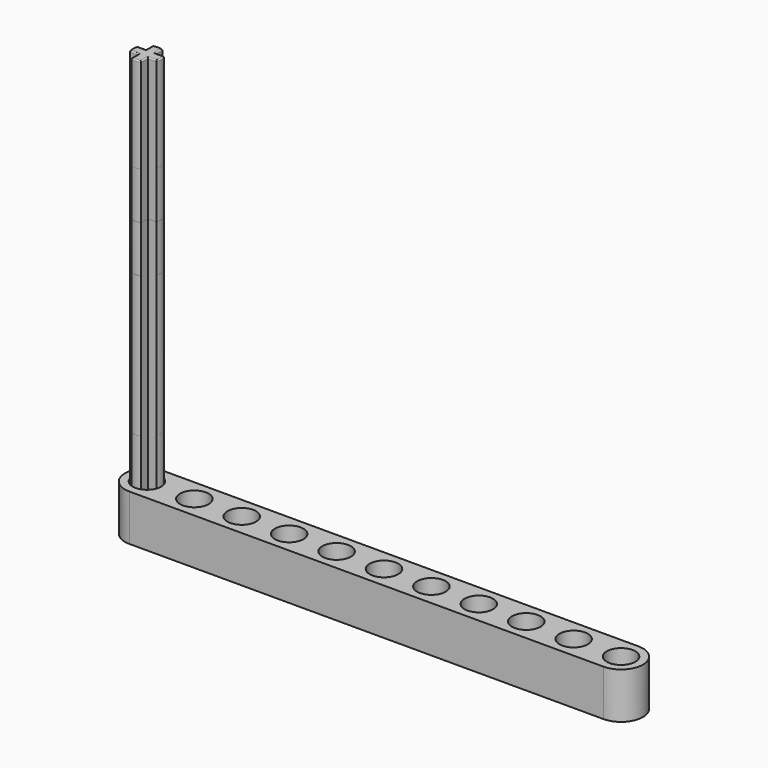
from build123d import *

# Parameters (mm, degrees)
F0_R      = 3.1
F0_R_2    = 2.4
F4_DEPTH  = 7.76
F1_R      = 2.4
F5_DEPTH  = 7.76
F17_R     = 2.4
F19_DEPTH = 7.76
F2_R      = 2.4
F20_DEPTH = 7.76
F3_R      = 2.4
F6_DEPTH  = 7.76
F18_W     = 1.58
F18_H     = 1.58
F7_DEPTH  = 15.8
F21_R     = 0.2
F8_DEPTH  = 23.7
F9_R      = 0.2
F22_DEPTH = 31.6
F10_R     = 0.2
F23_DEPTH = 39.5
F11_R     = 0.2
F12_DEPTH = 55.3
F13_R     = 0.2
F14_DEPTH = 71.1
F24_R     = 0.2
F15_DEPTH = 47.4
F16_R     = 0.2


with BuildPart() as f4:
    # F0 (on Top) → F4 (new body)
    with BuildSketch(Plane.XY):
        with BuildLine():
            Line((0, -3.69), (15.94, -3.69))
            ThreePointArc((15.94, -3.69), (19.63, 0), (15.94, 3.69))
            Line((15.94, 3.69), (0, 3.69))
            ThreePointArc((0, 3.69), (-3.69, 0), (0, -3.69))
        make_face()
        Circle(F0_R, mode=Mode.SUBTRACT)
        with Locations((7.97, 0)):
            Circle(F0_R, mode=Mode.SUBTRACT)
        with Locations((15.94, 0)):
            Circle(F0_R, mode=Mode.SUBTRACT)
        Circle(F0_R)
        Circle(F0_R_2, mode=Mode.SUBTRACT)
        with Locations((7.97, 0)):
            Circle(F0_R)
        with Locations((7.97, 0)):
            Circle(F0_R_2, mode=Mode.SUBTRACT)
        with Locations((15.94, 0)):
            Circle(F0_R)
        with Locations((15.94, 0)):
            Circle(F0_R_2, mode=Mode.SUBTRACT)
    extrude(amount=F4_DEPTH)


with BuildPart() as f5:
    # F1 (on Top) → F5 (new body, through all)
    with BuildSketch(Plane.XY):
        with BuildLine():
            Line((0, -3.69), (31.88, -3.69))
            ThreePointArc((31.88, -3.69), (35.57, 0), (31.88, 3.69))
            Line((31.88, 3.69), (0, 3.69))
            ThreePointArc((0, 3.69), (-3.69, 0), (0, -3.69))
        make_face()
        Circle(F1_R, mode=Mode.SUBTRACT)
        with Locations((7.97, 0)):
            Circle(F1_R, mode=Mode.SUBTRACT)
        with Locations((15.94, 0)):
            Circle(F1_R, mode=Mode.SUBTRACT)
        with Locations((23.91, 0)):
            Circle(F1_R, mode=Mode.SUBTRACT)
        with Locations((31.88, 0)):
            Circle(F1_R, mode=Mode.SUBTRACT)
    extrude(amount=F5_DEPTH)


with BuildPart() as f19:
    # F17 (on Top) → F19 (new body, through all)
    with BuildSketch(Plane.XY):
        with BuildLine():
            Line((0, -3.69), (47.82, -3.69))
            ThreePointArc((47.82, -3.69), (51.51, 0), (47.82, 3.69))
            Line((47.82, 3.69), (0, 3.69))
            ThreePointArc((0, 3.69), (-3.69, 0), (0, -3.69))
        make_face()
        Circle(F17_R, mode=Mode.SUBTRACT)
        with Locations((7.97, 0)):
            Circle(F17_R, mode=Mode.SUBTRACT)
        with Locations((15.94, 0)):
            Circle(F17_R, mode=Mode.SUBTRACT)
        with Locations((23.91, 0)):
            Circle(F17_R, mode=Mode.SUBTRACT)
        with Locations((31.88, 0)):
            Circle(F17_R, mode=Mode.SUBTRACT)
        with Locations((39.85, 0)):
            Circle(F17_R, mode=Mode.SUBTRACT)
        with Locations((47.82, 0)):
            Circle(F17_R, mode=Mode.SUBTRACT)
    extrude(amount=F19_DEPTH)


with BuildPart() as f20:
    # F2 (on Top) → F20 (new body, through all)
    with BuildSketch(Plane.XY):
        with BuildLine():
            Line((0, -3.69), (63.76, -3.69))
            ThreePointArc((63.76, -3.69), (67.45, 0), (63.76, 3.69))
            Line((63.76, 3.69), (0, 3.69))
            ThreePointArc((0, 3.69), (-3.69, 0), (0, -3.69))
        make_face()
        Circle(F2_R, mode=Mode.SUBTRACT)
        with Locations((7.97, 0)):
            Circle(F2_R, mode=Mode.SUBTRACT)
        with Locations((15.94, 0)):
            Circle(F2_R, mode=Mode.SUBTRACT)
        with Locations((23.91, 0)):
            Circle(F2_R, mode=Mode.SUBTRACT)
        with Locations((31.88, 0)):
            Circle(F2_R, mode=Mode.SUBTRACT)
        with Locations((39.85, 0)):
            Circle(F2_R, mode=Mode.SUBTRACT)
        with Locations((47.82, 0)):
            Circle(F2_R, mode=Mode.SUBTRACT)
        with Locations((55.79, 0)):
            Circle(F2_R, mode=Mode.SUBTRACT)
        with Locations((63.76, 0)):
            Circle(F2_R, mode=Mode.SUBTRACT)
    extrude(amount=F20_DEPTH)


with BuildPart() as f6:
    # F3 (on Top) → F6 (new body, through all)
    with BuildSketch(Plane.XY):
        with BuildLine():
            Line((0, -3.69), (79.7, -3.69))
            ThreePointArc((79.7, -3.69), (83.39, 0), (79.7, 3.69))
            Line((79.7, 3.69), (0, 3.69))
            ThreePointArc((0, 3.69), (-3.69, 0), (0, -3.69))
        make_face()
        Circle(F3_R, mode=Mode.SUBTRACT)
        with Locations((7.97, 0)):
            Circle(F3_R, mode=Mode.SUBTRACT)
        with Locations((15.94, 0)):
            Circle(F3_R, mode=Mode.SUBTRACT)
        with Locations((23.91, 0)):
            Circle(F3_R, mode=Mode.SUBTRACT)
        with Locations((31.88, 0)):
            Circle(F3_R, mode=Mode.SUBTRACT)
        with Locations((39.85, 0)):
            Circle(F3_R, mode=Mode.SUBTRACT)
        with Locations((47.82, 0)):
            Circle(F3_R, mode=Mode.SUBTRACT)
        with Locations((55.79, 0)):
            Circle(F3_R, mode=Mode.SUBTRACT)
        with Locations((63.76, 0)):
            Circle(F3_R, mode=Mode.SUBTRACT)
        with Locations((71.73, 0)):
            Circle(F3_R, mode=Mode.SUBTRACT)
        with Locations((79.7, 0)):
            Circle(F3_R, mode=Mode.SUBTRACT)
    extrude(amount=F6_DEPTH)


with BuildPart() as f7:
    # F18 (on Top) → F7 (new body)
    with BuildSketch(Plane.XY):
        with BuildLine():
            Line((-0.79, -0.79), (-0.79, -2.2344574285))
            ThreePointArc((-0.79, -2.2344574285), (0, -2.37), (0.79, -2.2344574285))
            Line((0.79, -2.2344574285), (0.79, -0.79))
            Line((0.79, -0.79), (-0.79, -0.79))
        make_face()
        Rectangle(F18_W, F18_H)
        with BuildLine():
            Line((-2.2344574285, -0.79), (-0.79, -0.79))
            Line((-0.79, -0.79), (-0.79, 0.79))
            Line((-0.79, 0.79), (-2.2344574285, 0.79))
            ThreePointArc((-2.2344574285, 0.79), (-2.37, 0), (-2.2344574285, -0.79))
        make_face()
        with BuildLine():
            Line((0.79, 0.79), (0.79, -0.79))
            Line((0.79, -0.79), (2.2344574285, -0.79))
            ThreePointArc((2.2344574285, -0.79), (2.37, 0), (2.2344574285, 0.79))
            Line((2.2344574285, 0.79), (0.79, 0.79))
        make_face()
        with BuildLine():
            Line((-0.79, 2.2344574285), (-0.79, 0.79))
            Line((-0.79, 0.79), (0.79, 0.79))
            Line((0.79, 0.79), (0.79, 2.2344574285))
            ThreePointArc((0.79, 2.2344574285), (0, 2.37), (-0.79, 2.2344574285))
        make_face()
    extrude(amount=F7_DEPTH)

    # F21
    f21_edges = [f7.edges().sort_by_distance(p)[0] for p in [
        (0.79, -1.512229, 15.8),
        (1.512229, -0.79, 15.8),
        (2.37, 0, 15.8),
        (1.512229, 0.79, 15.8),
        (0.79, 1.512229, 15.8),
        (0, 2.37, 15.8),
        (-0.79, 1.512229, 15.8),
        (-1.512229, 0.79, 15.8),
        (-2.37, 0, 15.8),
        (-1.512229, -0.79, 15.8),
        (-0.79, -1.512229, 15.8),
        (0, -2.37, 15.8),
        (0.79, -1.512229, 0),
        (1.512229, -0.79, 0),
        (2.37, 0, 0),
        (1.512229, 0.79, 0),
        (0.79, 1.512229, 0),
        (0, 2.37, 0),
        (-0.79, 1.512229, 0),
        (-1.512229, 0.79, 0),
        (-2.37, 0, 0),
        (-1.512229, -0.79, 0),
        (-0.79, -1.512229, 0),
        (0, -2.37, 0),
    ]]
    fillet(f21_edges, radius=F21_R)


with BuildPart() as f8:
    # F18 (on Top) → F8 (new body)
    with BuildSketch(Plane.XY):
        with BuildLine():
            Line((-0.79, -0.79), (-0.79, -2.2344574285))
            ThreePointArc((-0.79, -2.2344574285), (0, -2.37), (0.79, -2.2344574285))
            Line((0.79, -2.2344574285), (0.79, -0.79))
            Line((0.79, -0.79), (-0.79, -0.79))
        make_face()
        Rectangle(F18_W, F18_H)
        with BuildLine():
            Line((-2.2344574285, -0.79), (-0.79, -0.79))
            Line((-0.79, -0.79), (-0.79, 0.79))
            Line((-0.79, 0.79), (-2.2344574285, 0.79))
            ThreePointArc((-2.2344574285, 0.79), (-2.37, 0), (-2.2344574285, -0.79))
        make_face()
        with BuildLine():
            Line((0.79, 0.79), (0.79, -0.79))
            Line((0.79, -0.79), (2.2344574285, -0.79))
            ThreePointArc((2.2344574285, -0.79), (2.37, 0), (2.2344574285, 0.79))
            Line((2.2344574285, 0.79), (0.79, 0.79))
        make_face()
        with BuildLine():
            Line((-0.79, 2.2344574285), (-0.79, 0.79))
            Line((-0.79, 0.79), (0.79, 0.79))
            Line((0.79, 0.79), (0.79, 2.2344574285))
            ThreePointArc((0.79, 2.2344574285), (0, 2.37), (-0.79, 2.2344574285))
        make_face()
    extrude(amount=F8_DEPTH)

    # F9
    f9_edges = [f8.edges().sort_by_distance(p)[0] for p in [
        (0.79, -1.512229, 0),
        (1.512229, -0.79, 0),
        (2.37, 0, 0),
        (1.512229, 0.79, 0),
        (0.79, 1.512229, 0),
        (0, 2.37, 0),
        (-0.79, 1.512229, 0),
        (-1.512229, 0.79, 0),
        (-2.37, 0, 0),
        (-1.512229, -0.79, 0),
        (-0.79, -1.512229, 0),
        (0, -2.37, 0),
    ]]
    fillet(f9_edges, radius=F9_R)


with BuildPart() as f22:
    # F18 (on Top) → F22 (new body)
    with BuildSketch(Plane.XY):
        with BuildLine():
            Line((-0.79, -0.79), (-0.79, -2.2344574285))
            ThreePointArc((-0.79, -2.2344574285), (0, -2.37), (0.79, -2.2344574285))
            Line((0.79, -2.2344574285), (0.79, -0.79))
            Line((0.79, -0.79), (-0.79, -0.79))
        make_face()
        Rectangle(F18_W, F18_H)
        with BuildLine():
            Line((-2.2344574285, -0.79), (-0.79, -0.79))
            Line((-0.79, -0.79), (-0.79, 0.79))
            Line((-0.79, 0.79), (-2.2344574285, 0.79))
            ThreePointArc((-2.2344574285, 0.79), (-2.37, 0), (-2.2344574285, -0.79))
        make_face()
        with BuildLine():
            Line((0.79, 0.79), (0.79, -0.79))
            Line((0.79, -0.79), (2.2344574285, -0.79))
            ThreePointArc((2.2344574285, -0.79), (2.37, 0), (2.2344574285, 0.79))
            Line((2.2344574285, 0.79), (0.79, 0.79))
        make_face()
        with BuildLine():
            Line((-0.79, 2.2344574285), (-0.79, 0.79))
            Line((-0.79, 0.79), (0.79, 0.79))
            Line((0.79, 0.79), (0.79, 2.2344574285))
            ThreePointArc((0.79, 2.2344574285), (0, 2.37), (-0.79, 2.2344574285))
        make_face()
    extrude(amount=F22_DEPTH)

    # F10
    f10_edges = [f22.edges().sort_by_distance(p)[0] for p in [
        (0.79, -1.512229, 0),
        (1.512229, -0.79, 0),
        (2.37, 0, 0),
        (1.512229, 0.79, 0),
        (0.79, 1.512229, 0),
        (0, 2.37, 0),
        (-0.79, 1.512229, 0),
        (-1.512229, 0.79, 0),
        (-2.37, 0, 0),
        (-1.512229, -0.79, 0),
        (-0.79, -1.512229, 0),
        (0, -2.37, 0),
        (0.79, -1.512229, 31.6),
        (1.512229, -0.79, 31.6),
        (2.37, 0, 31.6),
        (1.512229, 0.79, 31.6),
        (0.79, 1.512229, 31.6),
        (0, 2.37, 31.6),
        (-0.79, 1.512229, 31.6),
        (-1.512229, 0.79, 31.6),
        (-2.37, 0, 31.6),
        (-1.512229, -0.79, 31.6),
        (-0.79, -1.512229, 31.6),
        (0, -2.37, 31.6),
    ]]
    fillet(f10_edges, radius=F10_R)

    # F18 (on Top) → F23 (join)
    with BuildSketch(Plane.XY):
        with BuildLine():
            Line((-0.79, -0.79), (-0.79, -2.2344574285))
            ThreePointArc((-0.79, -2.2344574285), (0, -2.37), (0.79, -2.2344574285))
            Line((0.79, -2.2344574285), (0.79, -0.79))
            Line((0.79, -0.79), (-0.79, -0.79))
        make_face()
        Rectangle(F18_W, F18_H)
        with BuildLine():
            Line((-2.2344574285, -0.79), (-0.79, -0.79))
            Line((-0.79, -0.79), (-0.79, 0.79))
            Line((-0.79, 0.79), (-2.2344574285, 0.79))
            ThreePointArc((-2.2344574285, 0.79), (-2.37, 0), (-2.2344574285, -0.79))
        make_face()
        with BuildLine():
            Line((0.79, 0.79), (0.79, -0.79))
            Line((0.79, -0.79), (2.2344574285, -0.79))
            ThreePointArc((2.2344574285, -0.79), (2.37, 0), (2.2344574285, 0.79))
            Line((2.2344574285, 0.79), (0.79, 0.79))
        make_face()
        with BuildLine():
            Line((-0.79, 2.2344574285), (-0.79, 0.79))
            Line((-0.79, 0.79), (0.79, 0.79))
            Line((0.79, 0.79), (0.79, 2.2344574285))
            ThreePointArc((0.79, 2.2344574285), (0, 2.37), (-0.79, 2.2344574285))
        make_face()
    extrude(amount=F23_DEPTH)

    # F11
    f11_edges = [f22.edges().sort_by_distance(p)[0] for p in [
        (0.79, -1.512229, 39.5),
        (1.512229, -0.79, 39.5),
        (2.37, 0, 39.5),
        (1.512229, 0.79, 39.5),
        (0.79, 1.512229, 39.5),
        (0, 2.37, 39.5),
        (-0.79, 1.512229, 39.5),
        (-1.512229, 0.79, 39.5),
        (-2.37, 0, 39.5),
        (-1.512229, -0.79, 39.5),
        (-0.79, -1.512229, 39.5),
        (0, -2.37, 39.5),
        (0.79, -1.512229, 0),
        (1.512229, -0.79, 0),
        (2.37, 0, 0),
        (1.512229, 0.79, 0),
        (0.79, 1.512229, 0),
        (0, 2.37, 0),
        (-0.79, 1.512229, 0),
        (-1.512229, 0.79, 0),
        (-2.37, 0, 0),
        (-1.512229, -0.79, 0),
        (-0.79, -1.512229, 0),
        (0, -2.37, 0),
    ]]
    fillet(f11_edges, radius=F11_R)


with BuildPart() as f12:
    # F18 (on Top) → F12 (new body)
    with BuildSketch(Plane.XY):
        with BuildLine():
            Line((-0.79, -0.79), (-0.79, -2.2344574285))
            ThreePointArc((-0.79, -2.2344574285), (0, -2.37), (0.79, -2.2344574285))
            Line((0.79, -2.2344574285), (0.79, -0.79))
            Line((0.79, -0.79), (-0.79, -0.79))
        make_face()
        Rectangle(F18_W, F18_H)
        with BuildLine():
            Line((-2.2344574285, -0.79), (-0.79, -0.79))
            Line((-0.79, -0.79), (-0.79, 0.79))
            Line((-0.79, 0.79), (-2.2344574285, 0.79))
            ThreePointArc((-2.2344574285, 0.79), (-2.37, 0), (-2.2344574285, -0.79))
        make_face()
        with BuildLine():
            Line((0.79, 0.79), (0.79, -0.79))
            Line((0.79, -0.79), (2.2344574285, -0.79))
            ThreePointArc((2.2344574285, -0.79), (2.37, 0), (2.2344574285, 0.79))
            Line((2.2344574285, 0.79), (0.79, 0.79))
        make_face()
        with BuildLine():
            Line((-0.79, 2.2344574285), (-0.79, 0.79))
            Line((-0.79, 0.79), (0.79, 0.79))
            Line((0.79, 0.79), (0.79, 2.2344574285))
            ThreePointArc((0.79, 2.2344574285), (0, 2.37), (-0.79, 2.2344574285))
        make_face()
    extrude(amount=F12_DEPTH)

    # F13
    f13_edges = [f12.edges().sort_by_distance(p)[0] for p in [
        (0.79, -1.512229, 0),
        (1.512229, -0.79, 0),
        (2.37, 0, 0),
        (1.512229, 0.79, 0),
        (0.79, 1.512229, 0),
        (0, 2.37, 0),
        (-0.79, 1.512229, 0),
        (-1.512229, 0.79, 0),
        (-2.37, 0, 0),
        (-1.512229, -0.79, 0),
        (-0.79, -1.512229, 0),
        (0, -2.37, 0),
        (0.79, -1.512229, 55.3),
        (1.512229, -0.79, 55.3),
        (2.37, 0, 55.3),
        (1.512229, 0.79, 55.3),
        (0.79, 1.512229, 55.3),
        (0, 2.37, 55.3),
        (-0.79, 1.512229, 55.3),
        (-1.512229, 0.79, 55.3),
        (-2.37, 0, 55.3),
        (-1.512229, -0.79, 55.3),
        (-0.79, -1.512229, 55.3),
        (0, -2.37, 55.3),
    ]]
    fillet(f13_edges, radius=F13_R)


with BuildPart() as f14:
    # F18 (on Top) → F14 (new body)
    with BuildSketch(Plane.XY):
        with BuildLine():
            Line((-0.79, -0.79), (-0.79, -2.2344574285))
            ThreePointArc((-0.79, -2.2344574285), (0, -2.37), (0.79, -2.2344574285))
            Line((0.79, -2.2344574285), (0.79, -0.79))
            Line((0.79, -0.79), (-0.79, -0.79))
        make_face()
        Rectangle(F18_W, F18_H)
        with BuildLine():
            Line((-2.2344574285, -0.79), (-0.79, -0.79))
            Line((-0.79, -0.79), (-0.79, 0.79))
            Line((-0.79, 0.79), (-2.2344574285, 0.79))
            ThreePointArc((-2.2344574285, 0.79), (-2.37, 0), (-2.2344574285, -0.79))
        make_face()
        with BuildLine():
            Line((0.79, 0.79), (0.79, -0.79))
            Line((0.79, -0.79), (2.2344574285, -0.79))
            ThreePointArc((2.2344574285, -0.79), (2.37, 0), (2.2344574285, 0.79))
            Line((2.2344574285, 0.79), (0.79, 0.79))
        make_face()
        with BuildLine():
            Line((-0.79, 2.2344574285), (-0.79, 0.79))
            Line((-0.79, 0.79), (0.79, 0.79))
            Line((0.79, 0.79), (0.79, 2.2344574285))
            ThreePointArc((0.79, 2.2344574285), (0, 2.37), (-0.79, 2.2344574285))
        make_face()
    extrude(amount=F14_DEPTH)

    # F24
    f24_edges = [f14.edges().sort_by_distance(p)[0] for p in [
        (0.79, -1.512229, 0),
        (1.512229, -0.79, 0),
        (2.37, 0, 0),
        (1.512229, 0.79, 0),
        (0.79, 1.512229, 0),
        (0, 2.37, 0),
        (-0.79, 1.512229, 0),
        (-1.512229, 0.79, 0),
        (-2.37, 0, 0),
        (-1.512229, -0.79, 0),
        (-0.79, -1.512229, 0),
        (0, -2.37, 0),
        (0.79, -1.512229, 71.1),
        (1.512229, -0.79, 71.1),
        (2.37, 0, 71.1),
        (1.512229, 0.79, 71.1),
        (0.79, 1.512229, 71.1),
        (0, 2.37, 71.1),
        (-0.79, 1.512229, 71.1),
        (-1.512229, 0.79, 71.1),
        (-2.37, 0, 71.1),
        (-1.512229, -0.79, 71.1),
        (-0.79, -1.512229, 71.1),
        (0, -2.37, 71.1),
    ]]
    fillet(f24_edges, radius=F24_R)


with BuildPart() as f15:
    # F18 (on Top) → F15 (new body)
    with BuildSketch(Plane.XY):
        with BuildLine():
            Line((-0.79, -0.79), (-0.79, -2.2344574285))
            ThreePointArc((-0.79, -2.2344574285), (0, -2.37), (0.79, -2.2344574285))
            Line((0.79, -2.2344574285), (0.79, -0.79))
            Line((0.79, -0.79), (-0.79, -0.79))
        make_face()
        Rectangle(F18_W, F18_H)
        with BuildLine():
            Line((-2.2344574285, -0.79), (-0.79, -0.79))
            Line((-0.79, -0.79), (-0.79, 0.79))
            Line((-0.79, 0.79), (-2.2344574285, 0.79))
            ThreePointArc((-2.2344574285, 0.79), (-2.37, 0), (-2.2344574285, -0.79))
        make_face()
        with BuildLine():
            Line((0.79, 0.79), (0.79, -0.79))
            Line((0.79, -0.79), (2.2344574285, -0.79))
            ThreePointArc((2.2344574285, -0.79), (2.37, 0), (2.2344574285, 0.79))
            Line((2.2344574285, 0.79), (0.79, 0.79))
        make_face()
        with BuildLine():
            Line((-0.79, 2.2344574285), (-0.79, 0.79))
            Line((-0.79, 0.79), (0.79, 0.79))
            Line((0.79, 0.79), (0.79, 2.2344574285))
            ThreePointArc((0.79, 2.2344574285), (0, 2.37), (-0.79, 2.2344574285))
        make_face()
    extrude(amount=F15_DEPTH)

    # F16
    f16_edges = [f15.edges().sort_by_distance(p)[0] for p in [
        (0.79, -1.512229, 47.4),
        (1.512229, -0.79, 47.4),
        (2.37, 0, 47.4),
        (1.512229, 0.79, 47.4),
        (0.79, 1.512229, 47.4),
        (0, 2.37, 47.4),
        (-0.79, 1.512229, 47.4),
        (-1.512229, 0.79, 47.4),
        (-2.37, 0, 47.4),
        (-1.512229, -0.79, 47.4),
        (-0.79, -1.512229, 47.4),
        (0, -2.37, 47.4),
        (0.79, -1.512229, 0),
        (1.512229, -0.79, 0),
        (2.37, 0, 0),
        (1.512229, 0.79, 0),
        (0.79, 1.512229, 0),
        (0, 2.37, 0),
        (-0.79, 1.512229, 0),
        (-1.512229, 0.79, 0),
        (-2.37, 0, 0),
        (-1.512229, -0.79, 0),
        (-0.79, -1.512229, 0),
        (0, -2.37, 0),
    ]]
    fillet(f16_edges, radius=F16_R)


solid = Compound([f4.part, f5.part, f19.part, f20.part, f6.part, f7.part, f8.part, f22.part, f12.part, f14.part, f15.part])
